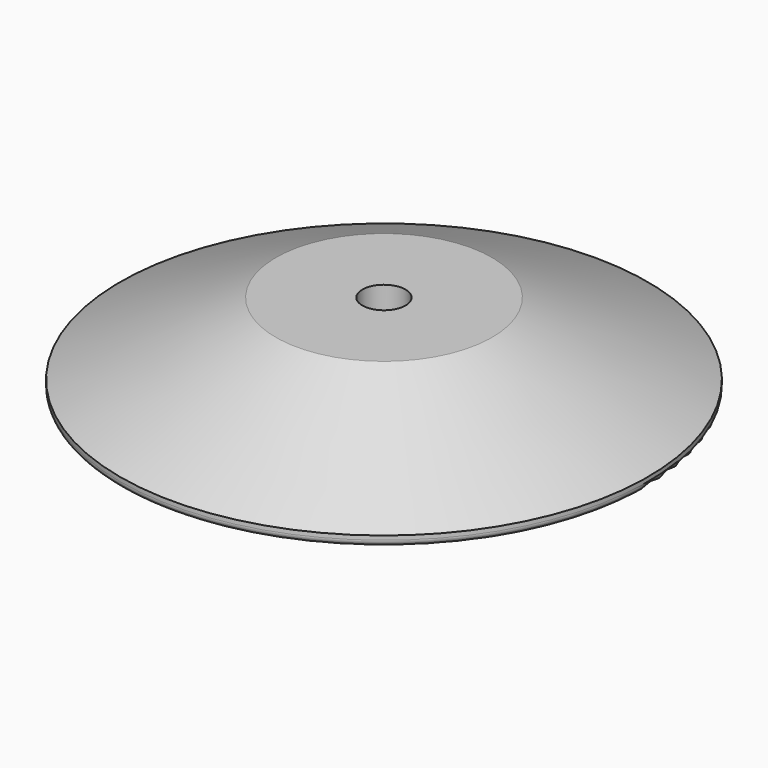
from build123d import *

# Parameters (mm, degrees)
F3_D = 6.8


with BuildPart() as f1:
    # F0 (on Right) → F1 (revolve)
    with BuildSketch(Plane.YZ):
        with BuildLine():
            ThreePointArc((40.5, 0), (41.2071067812, 0.2928932188), (41.5, 1))
            Line((41.5, 1), (41.5, 1.6531942821))
            Line((41.5, 1.6531942821), (17, 13))
            Line((17, 13), (0, 13))
            Line((0, 13), (0, 0))
            Line((0, 0), (40.5, 0))
        make_face()
    revolve(axis=Axis((0, 0, 6.5), (0, 0, -1)))

    # F3 (through all)
    with Locations(Plane(origin=(0, 0, 0), x_dir=(1, 0, 0), z_dir=(0, 0, -1))):
        with Locations((0, 0)):
            Hole(F3_D / 2)


solid = f1.part
